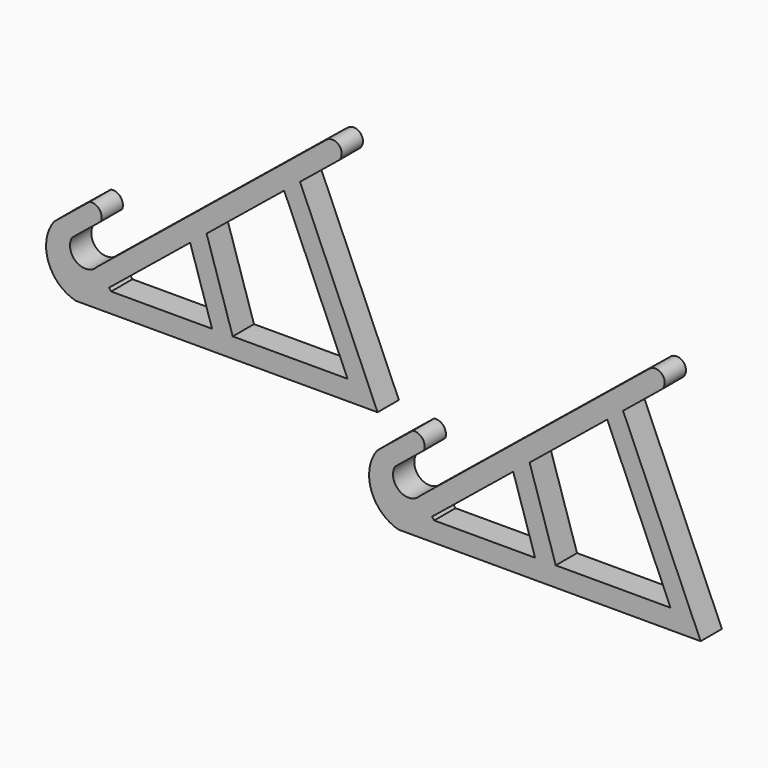
from build123d import *

# Parameters (mm, degrees)
F1_DEPTH = 13.716
F2_DEPTH = 13.716
F3_DEPTH = 13.716
F4_DEPTH = 13.716


with BuildPart() as f1:
    # F0 (on Front) → F1 (new body)
    with BuildSketch(Plane.XZ):
        with BuildLine():
            Line((-33.229091, -16.565101), (-39.318088, -9.076095))
            ThreePointArc((-39.318088, -9.076095), (-49.956463, -10.466923), (-52.312929, 0))
            Line((-52.312929, 0), (-48.932294, 2.748652))
            Line((-48.932294, 2.748652), (-37.411277, 12.115909))
            ThreePointArc((-37.411277, 12.115909), (-38.207902, 17.360703), (-43.179801, 19.210757))
            Line((-43.179801, 19.210757), (-50.6085, 13.170793))
            Line((-50.6085, 13.170793), (-61.603338, 4.23135))
            ThreePointArc((-61.603338, 4.23135), (-64.588219, -14.858184), (-50.522273, -28.104655))
            Line((-50.522273, -28.104655), (-44.243115, -28.104655))
            Line((-44.243115, -28.104655), (105.335705, -28.104655))
            Line((105.335705, -28.104655), (65.310465, 63.553286))
            Line((65.310465, 63.553286), (57.128855, 56.901161))
            Line((57.128855, 56.901161), (89.812567, -17.944655))
            Line((89.812567, -17.944655), (30.589637, -17.944655))
            Line((30.589637, -17.944655), (19.925294, -17.944655))
            Line((19.925294, -17.944655), (-32.107433, -17.944655))
            Line((-32.107433, -17.944655), (-33.229091, -16.565101))
        make_face()
    extrude(amount=F1_DEPTH)

    # F0 (on Front) → F2 (join)
    with BuildSketch(Plane.XZ):
        Polygon((59.221468, 71.042292), (-39.318088, -9.076095), (-33.229091, -16.565101), (8.629475, 17.468346), (17.097647, 24.353462), (57.128855, 56.901161), (65.310465, 63.553286), align=None)
        with BuildLine():
            Line((78.929379, 87.06597), (59.221468, 71.042292))
            Line((59.221468, 71.042292), (65.310465, 63.553286))
            Line((65.310465, 63.553286), (85.018376, 79.576963))
            ThreePointArc((85.018376, 79.576963), (85.718381, 86.365965), (78.929379, 87.06597))
        make_face()
    extrude(amount=F2_DEPTH)

    # F0 (on Front) → F3 (join)
    with BuildSketch(Plane.XZ):
        Polygon((17.097647, 24.353462), (8.629475, 17.468346), (19.925294, -17.944655), (30.589637, -17.944655), align=None)
    extrude(amount=F3_DEPTH)


with BuildPart() as f4:
    # F0 (on Front) → F4 (new body)
    with BuildSketch(Plane.XZ):
        with BuildLine():
            Line((133.424161, -66.351195), (127.335164, -58.862188))
            ThreePointArc((127.335164, -58.862188), (116.696789, -60.253017), (114.340323, -49.786094))
            Line((114.340323, -49.786094), (117.720957, -47.037442))
            Line((117.720957, -47.037442), (129.241975, -37.670185))
            ThreePointArc((129.241975, -37.670185), (128.44535, -32.425391), (123.473451, -30.575337))
            Line((123.473451, -30.575337), (116.044752, -36.615301))
            Line((116.044752, -36.615301), (105.049913, -45.554744))
            ThreePointArc((105.049913, -45.554744), (102.065033, -64.644278), (116.130979, -77.890748))
            Line((116.130979, -77.890748), (122.410137, -77.890748))
            Line((122.410137, -77.890748), (271.988957, -77.890748))
            Line((271.988957, -77.890748), (231.963717, 13.767192))
            Line((231.963717, 13.767192), (223.782107, 7.115067))
            Line((223.782107, 7.115067), (256.465819, -67.730748))
            Line((256.465819, -67.730748), (197.242889, -67.730748))
            Line((197.242889, -67.730748), (186.578546, -67.730748))
            Line((186.578546, -67.730748), (134.545819, -67.730748))
            Line((134.545819, -67.730748), (133.424161, -66.351195))
        make_face()
        Polygon((225.87472, 21.256198), (127.335164, -58.862188), (133.424161, -66.351195), (175.282727, -32.317748), (183.750898, -25.432632), (223.782107, 7.115067), (231.963717, 13.767192), align=None)
        Polygon((183.750898, -25.432632), (175.282727, -32.317748), (186.578546, -67.730748), (197.242889, -67.730748), align=None)
        with BuildLine():
            Line((245.582631, 37.279876), (225.87472, 21.256198))
            Line((225.87472, 21.256198), (231.963717, 13.767192))
            Line((231.963717, 13.767192), (251.671628, 29.79087))
            ThreePointArc((251.671628, 29.79087), (252.371633, 36.579871), (245.582631, 37.279876))
        make_face()
    extrude(amount=F4_DEPTH)


solid = Compound([f1.part, f4.part])
